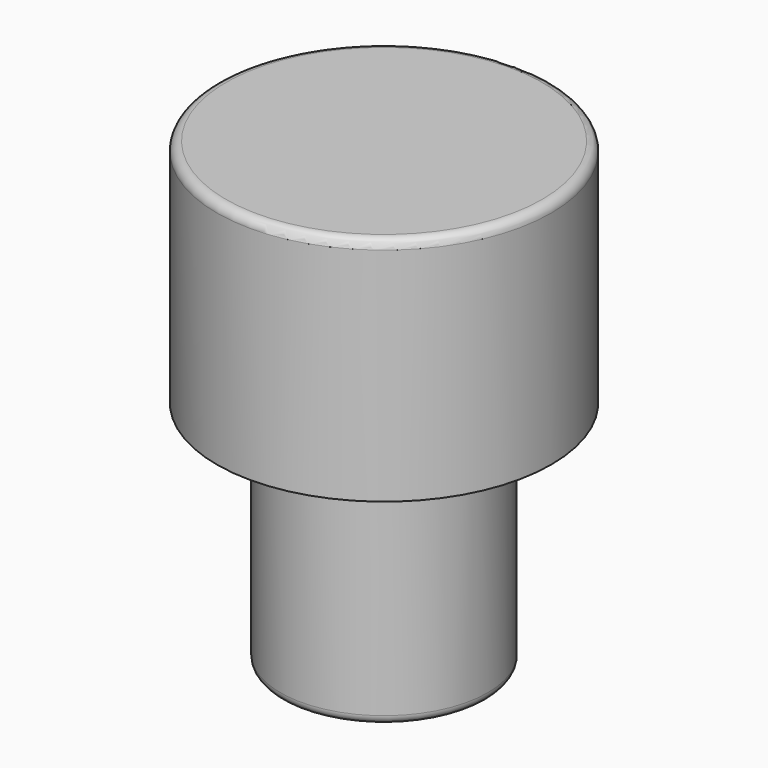
from build123d import *

# Parameters (mm, degrees)
F0_R     = 5.715
F1_DEPTH = 12.7
F3_R     = 9.215
F4_DEPTH = 12.7
F5_R     = 0.5
F6_R     = 0.5


with BuildPart() as f1:
    # F0 (on Top) → F1 (new body)
    with BuildSketch(Plane.XY):
        with Locations((-0.556749, 18.462112)):
            Circle(F0_R)
    extrude(amount=F1_DEPTH)

    # F3 (on offset) → F4 (join)
    with BuildSketch(Plane.XY.offset(12.7)):
        with Locations((-0.556749, 18.462112)):
            Circle(F3_R)
    extrude(amount=F4_DEPTH)

    # F5
    f5_edges = [f1.edges().sort_by_distance(p)[0] for p in [
        (-9.771749, 18.462112, 25.4),
    ]]
    fillet(f5_edges, radius=F5_R)

    # F6
    f6_edges = [f1.edges().sort_by_distance(p)[0] for p in [
        (-6.271749, 18.462112, 0),
    ]]
    fillet(f6_edges, radius=F6_R)


solid = f1.part
